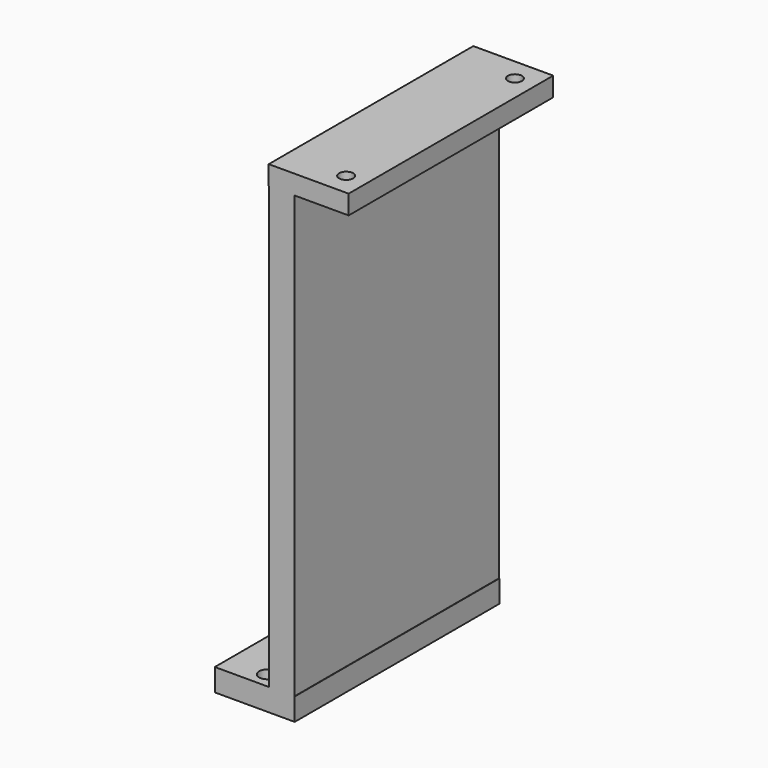
from build123d import *

# Parameters (mm, degrees)
SKETCH_W        = 25
SKETCH_H        = 80
PAD_DEPTH       = 7
SKETCH001_R     = 2.625
POCKET_DEPTH    = 8
SKETCH002_W     = 8
SKETCH002_H     = 80
PAD001_DEPTH    = 145
SKETCH003_W     = 25
SKETCH003_H     = 80
PAD002_DEPTH    = 6
SKETCH004_R     = 2.2
POCKET001_DEPTH = 7


with BuildPart() as part:
    # Sketch → Pad (new body)
    with BuildSketch(Plane.XY):
        Rectangle(SKETCH_W, SKETCH_H)
    extrude(amount=PAD_DEPTH)

    # Sketch001 → Pocket (cut)
    with BuildSketch(Plane.XY):
        with Locations((-0.003934, 35)):
            Circle(SKETCH001_R)
        with Locations((-0.004048, -35)):
            Circle(SKETCH001_R)
    extrude(amount=POCKET_DEPTH, mode=Mode.SUBTRACT)

    # Sketch002 → Pad001 (join)
    with BuildSketch(Plane.XY):
        with Locations((8.398357, 0)):
            Rectangle(SKETCH002_W, SKETCH002_H)
    extrude(amount=PAD001_DEPTH)

    # Sketch003 (on Face18 of Pad001) → Pad002 (join)
    with BuildSketch(Plane.XY.offset(145)):
        with Locations((16.875703, 0)):
            Rectangle(SKETCH003_W, SKETCH003_H)
    extrude(amount=PAD002_DEPTH)

    # Sketch004 (on Face7 of Pad002) → Pocket001 (cut)
    with BuildSketch(Plane.XY.offset(151)):
        with Locations((23, 33)):
            Circle(SKETCH004_R)
        with Locations((23, -33)):
            Circle(SKETCH004_R)
    extrude(amount=-POCKET001_DEPTH, mode=Mode.SUBTRACT)


solid = part.part
